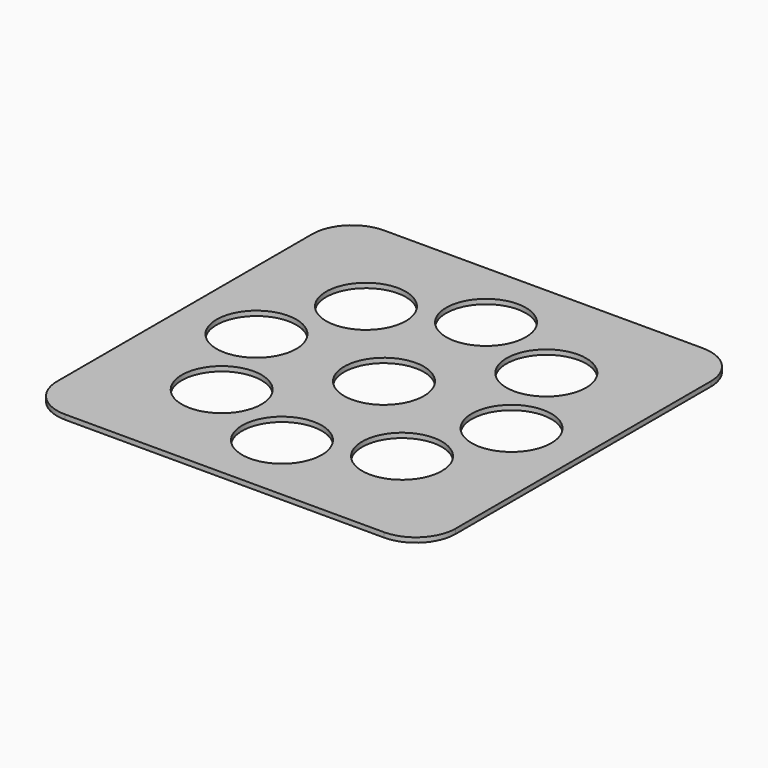
from build123d import *

# Parameters (mm, degrees)
F0_R     = 25
F1_DEPTH = 3


with BuildPart() as f1:
    # F0 (on Top) → F1 (new body)
    with BuildSketch(Plane.XY):
        with BuildLine():
            ThreePointArc((125, 100), (117.67767, 117.67767), (100, 125))
            Line((100, 125), (-100, 125))
            ThreePointArc((-100, 125), (-117.67767, 117.67767), (-125, 100))
            Line((-125, 100), (-125, -100))
            ThreePointArc((-125, -100), (-117.67767, -117.67767), (-100, -125))
            Line((-100, -125), (100, -125))
            ThreePointArc((100, -125), (117.67767, -117.67767), (125, -100))
            Line((125, -100), (125, 100))
        make_face()
        with Locations((-56.568542, -56.568542)):
            Circle(F0_R, mode=Mode.SUBTRACT)
        with Locations((0, -80)):
            Circle(F0_R, mode=Mode.SUBTRACT)
        with Locations((56.568542, -56.568542)):
            Circle(F0_R, mode=Mode.SUBTRACT)
        with Locations((-80, 0)):
            Circle(F0_R, mode=Mode.SUBTRACT)
        with Locations((-56.568542, 56.568542)):
            Circle(F0_R, mode=Mode.SUBTRACT)
        Circle(F0_R, mode=Mode.SUBTRACT)
        with Locations((56.568542, 56.568542)):
            Circle(F0_R, mode=Mode.SUBTRACT)
        with Locations((80, 0)):
            Circle(F0_R, mode=Mode.SUBTRACT)
        with Locations((0, 80)):
            Circle(F0_R, mode=Mode.SUBTRACT)
    extrude(amount=F1_DEPTH)


solid = f1.part
